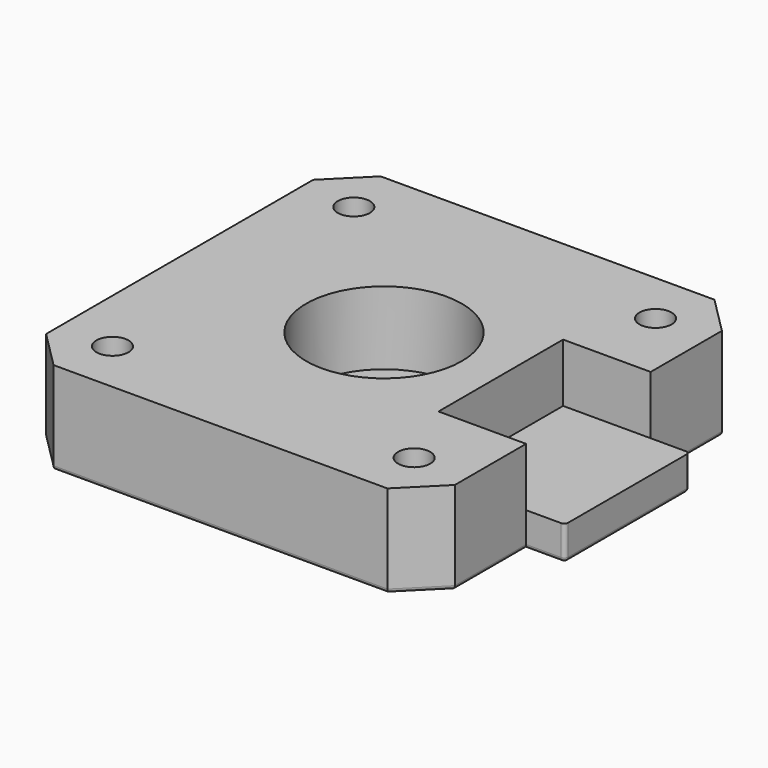
from build123d import *

# Parameters (mm, degrees)
SKETCH006_R             = 4.7
PAD003_DEPTH            = 9.5
SKETCH007_W             = 12.9999948434
SKETCH007_H             = 16
POCKET002_DEPTH         = 6
SKETCH008_R             = 8
POCKET003_DEPTH         = 7.5
SKETCH009_R             = 1.65
POCKET004_DEPTH         = 9.501
SKETCH010_R             = 3.05
POCKET005_DEPTH         = 3.5
FILLET_R                = 0.4
CHAMFER001_SIZE         = 0.5
BODY002_PLACEMENT_ANGLE = 180


with BuildPart() as part:
    # Sketch006 → Pad003 (new body)
    with BuildSketch(Plane.XY):
        Polygon((-21.0000051566, 17.1500051566), (-21.0000051566, -17.1500051566), (-17.1500154699, -21.0000051566), (17.1500154699, -21.0000051566), (20.9999948434, -17.1499948434), (20.9999948434, -8), (24.9999948434, -8), (24.9999948434, 8), (20.9999948434, 8), (20.9999948434, 17.1499948434), (17.1500051566, 20.9999948434), (-17.1500051566, 20.9999948434), align=None)
        Circle(SKETCH006_R, mode=Mode.SUBTRACT)
    extrude(amount=PAD003_DEPTH)

    # Sketch007 → Pocket002 (cut)
    with BuildSketch(Plane.XY):
        with Locations((18.4999974217, 0)):
            Rectangle(SKETCH007_W, SKETCH007_H)
    extrude(amount=POCKET002_DEPTH, mode=Mode.SUBTRACT)

    # Sketch008 → Pocket003 (cut)
    with BuildSketch(Plane.XY):
        Circle(SKETCH008_R)
    extrude(amount=POCKET003_DEPTH, mode=Mode.SUBTRACT)

    # Sketch009 → Pocket004 (cut, through all)
    with BuildSketch(Plane.XY.offset(9.5)):
        with Locations((-15.5, 15.5)):
            Circle(SKETCH009_R)
        with Locations((15.5, 15.5)):
            Circle(SKETCH009_R)
        with Locations((15.5, -15.5)):
            Circle(SKETCH009_R)
        with Locations((-15.5, -15.5)):
            Circle(SKETCH009_R)
    extrude(amount=-POCKET004_DEPTH, mode=Mode.SUBTRACT)

    # Sketch010 → Pocket005 (cut)
    with BuildSketch(Plane.XY.offset(9.5)):
        with Locations((-15.5, 15.5)):
            Circle(SKETCH010_R)
        with Locations((15.5, 15.5)):
            Circle(SKETCH010_R)
        with Locations((15.5, -15.5)):
            Circle(SKETCH010_R)
        with Locations((-15.5, -15.5)):
            Circle(SKETCH010_R)
    extrude(amount=-POCKET005_DEPTH, mode=Mode.SUBTRACT)

    # Fillet
    fillet_edges = [part.edges().sort_by_distance(p)[0] for p in [
        (-4.7, 0, 9.5),
        (0, -21.000005, 9.5),
        (19.075005, -19.075, 9.5),
        (20.999995, -12.574997, 9.5),
        (22.999995, -8, 9.5),
        (24.999995, -8, 7.75),
        (24.999995, 8, 7.75),
        (22.999995, 8, 9.5),
        (20.999995, 12.574997, 9.5),
        (19.075, 19.074995, 9.5),
        (0, 20.999995, 9.5),
        (-19.075005, 19.075, 9.5),
        (-21.000005, 0, 9.5),
        (-19.07501, -19.075005, 9.5),
        (24.999995, 0, 9.5),
    ]]
    fillet(fillet_edges, radius=FILLET_R)

    # Chamfer001
    chamfer001_edges = [part.edges().sort_by_distance(p)[0] for p in [
        (12.45, 15.5, 9.5),
        (-18.55, 15.5, 9.5),
        (12.45, -15.5, 9.5),
        (-18.55, -15.5, 9.5),
    ]]
    chamfer(chamfer001_edges, length=CHAMFER001_SIZE)


with BuildPart() as part_1:
    # Body002 placement: moved
    add(part.part.moved(Location((0, 0, -30.425))).rotate(Axis((0, 0, -30.425), (1, 0, 0)), BODY002_PLACEMENT_ANGLE))


solid = part_1.part
